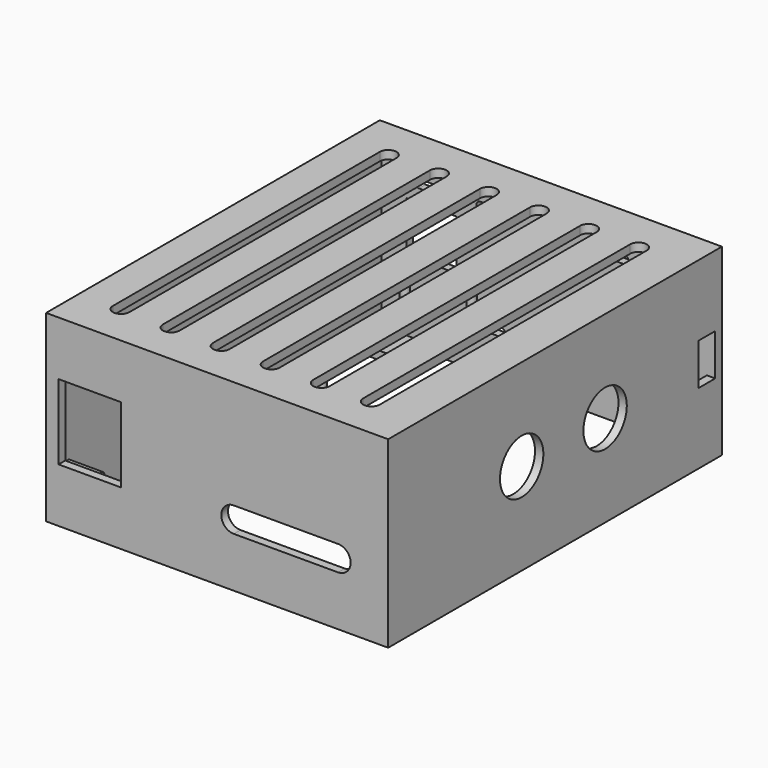
from build123d import *

# Parameters (mm, degrees)
SKETCH_W               = 82
SKETCH_H               = 100
SKETCH_W_2             = 78
SKETCH_H_2             = 80
PAD_DEPTH              = 2
SKETCH001_W            = 82
SKETCH001_H            = 100
SKETCH001_W_2          = 78
SKETCH001_H_2          = 96
PAD001_DEPTH           = 40
SKETCH002_R            = 6.5
SKETCH002_W            = 5
SKETCH002_H            = 10
POCKET_DEPTH           = 5
SKETCH003_W            = 82
SKETCH003_H            = 100
PAD002_DEPTH           = 2
SKETCH004_W            = 15
SKETCH004_H            = 18
POCKET001_DEPTH        = 5
SKETCH005_R            = 1
PAD003_DEPTH           = 10
POCKET002_DEPTH        = 5
LINEARPATTERN_COUNT    = 5
LINEARPATTERN_PITCH    = 14.75
SKETCH007_W            = 12
SKETCH007_H            = 12
POCKET003_DEPTH        = 5
POCKET004_DEPTH        = 5
LINEARPATTERN001_COUNT = 6
LINEARPATTERN001_PITCH = 12
SKETCH009_R            = 1
PAD004_DEPTH           = 10
SKETCH010_R            = 1.3
SKETCH010_W            = 70
SKETCH010_H            = 8
POCKET005_DEPTH        = 3


with BuildPart() as part:
    # Sketch → Pad (new body)
    with BuildSketch(Plane.XY):
        with Locations((41, -50)):
            Rectangle(SKETCH_W, SKETCH_H)
        with Locations((41, -50)):
            Rectangle(SKETCH_W_2, SKETCH_H_2, mode=Mode.SUBTRACT)
    extrude(amount=PAD_DEPTH)

    # Sketch001 (on Face10 of Pad) → Pad001 (join)
    with BuildSketch(Plane.XY.offset(2)):
        with Locations((41, -50)):
            Rectangle(SKETCH001_W, SKETCH001_H)
        with Locations((41, -50)):
            Rectangle(SKETCH001_W_2, SKETCH001_H_2, mode=Mode.SUBTRACT)
    extrude(amount=PAD001_DEPTH)

    # Sketch002 (on Face8 of Pad001) → Pocket (cut)
    with BuildSketch(Plane.YZ.offset(82)):
        with Locations((-60, 22)):
            Circle(SKETCH002_R)
        with Locations((-35, 22)):
            Circle(SKETCH002_R)
        with Locations((-4.5, 22)):
            Rectangle(SKETCH002_W, SKETCH002_H)
    extrude(amount=-POCKET_DEPTH, mode=Mode.SUBTRACT)

    # Sketch003 (on Face13 of Pocket) → Pad002 (join)
    with BuildSketch(Plane.XY.offset(42)):
        with Locations((41, -50)):
            Rectangle(SKETCH003_W, SKETCH003_H)
    extrude(amount=PAD002_DEPTH)

    # Sketch004 (on Face5 of Pad002) → Pocket001 (cut)
    with BuildSketch(Plane.XZ.offset(100)):
        with BuildLine():
            ThreePointArc((45, 18), (42, 15), (45, 12))
            Line((45, 12), (70, 12))
            ThreePointArc((70, 12), (73, 15), (70, 18))
            Line((45, 18), (70, 18))
        make_face()
        with Locations((10.5, 22)):
            Rectangle(SKETCH004_W, SKETCH004_H)
    extrude(amount=-POCKET001_DEPTH, mode=Mode.SUBTRACT)

    # Sketch005 (on Face7 of Pocket001) → Pad003 (join)
    with BuildSketch(Plane(origin=(0, 0, 0), x_dir=(0, -1, 0), z_dir=(-1, 0, 0))):
        with Locations((96, 34)):
            Circle(SKETCH005_R)
        with Locations((96, 11)):
            Circle(SKETCH005_R)
    extrude(amount=-PAD003_DEPTH)

    # Sketch006 (on Face22 of Pad003) → Pocket002 (cut)
    with BuildSketch(Plane(origin=(0, 0, 0), x_dir=(-1, 0, 0), z_dir=(0, 1, 0))):
        with BuildLine():
            ThreePointArc((-75, 11), (-76, 10), (-75, 9))
            Line((-75, 9), (-70, 9))
            ThreePointArc((-70, 9), (-69, 10), (-70, 11))
            Line((-75, 11), (-70, 11))
        make_face()
        with BuildLine():
            ThreePointArc((-75, 36), (-76, 35), (-75, 34))
            Line((-75, 34), (-70, 34))
            ThreePointArc((-70, 34), (-69, 35), (-70, 36))
            Line((-75, 36), (-70, 36))
        make_face()
    pocket002 = extrude(amount=-POCKET002_DEPTH, mode=Mode.SUBTRACT)

    # LinearPattern: Pocket002 ×5
    with Locations(*[(-i * LINEARPATTERN_PITCH, 0, 0) for i in range(1, LINEARPATTERN_COUNT)]):
        add(pocket002, mode=Mode.SUBTRACT)

    # Sketch007 (on Face22 of LinearPattern) → Pocket003 (cut)
    with BuildSketch(Plane(origin=(0, 0, 0), x_dir=(-1, 0, 0), z_dir=(0, 1, 0))):
        with Locations((-14, 25)):
            Rectangle(SKETCH007_W, SKETCH007_H)
    extrude(amount=-POCKET003_DEPTH, mode=Mode.SUBTRACT)

    # Sketch008 (on Face37 of Pocket003) → Pocket004 (cut)
    with BuildSketch(Plane.XY.offset(44)):
        with BuildLine():
            ThreePointArc((12, -10), (10, -8), (8, -10))
            Line((8, -10), (8, -90))
            ThreePointArc((8, -90), (10, -92), (12, -90))
            Line((12, -10), (12, -90))
        make_face()
    pocket004 = extrude(amount=-POCKET004_DEPTH, mode=Mode.SUBTRACT)

    # LinearPattern001: Pocket004 ×6
    with Locations(*[(i * LINEARPATTERN001_PITCH, 0, 0) for i in range(1, LINEARPATTERN001_COUNT)]):
        add(pocket004, mode=Mode.SUBTRACT)

    # Sketch009 (on Face37 of LinearPattern001) → Pad004 (join)
    with BuildSketch(Plane.XY.offset(44)):
        with Locations((54, -40)):
            Circle(SKETCH009_R)
        with Locations((38, -40)):
            Circle(SKETCH009_R)
        with Locations((38, -85)):
            Circle(SKETCH009_R)
        with Locations((54, -85)):
            Circle(SKETCH009_R)
    extrude(amount=-PAD004_DEPTH)

    # Sketch010 (on Face4 of Pad004) → Pocket005 (cut)
    with BuildSketch(Plane(origin=(0, 0, 0), x_dir=(1, 0, 0), z_dir=(0, 0, -1))):
        with Locations((4, 4)):
            Circle(SKETCH010_R)
        with Locations((78, 96)):
            Circle(SKETCH010_R)
        with Locations((45, 6)):
            Rectangle(SKETCH010_W, SKETCH010_H)
        with Locations((37, 94)):
            Rectangle(SKETCH010_W, SKETCH010_H)
    extrude(amount=-POCKET005_DEPTH, mode=Mode.SUBTRACT)


solid = part.part
